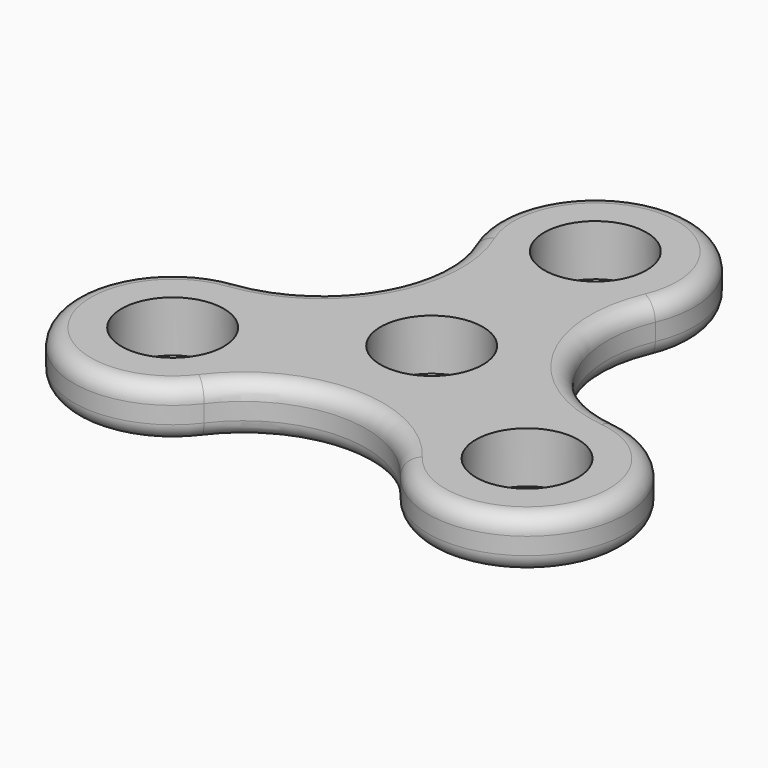
from build123d import *

# Parameters (mm, degrees)
F0_R     = 9.525
F1_DEPTH = 9.525
F2_R     = 3.175


with BuildPart() as f1:
    # F0 (on Top) → F1 (new body)
    with BuildSketch(Plane.XY):
        with BuildLine():
            ThreePointArc((35.216307, -0.769394), (18.175745, 10.493771), (16.941838, 30.882913))
            ThreePointArc((16.941838, 30.882913), (0, 56.515), (-16.941838, 30.882913))
            ThreePointArc((-16.941838, 30.882913), (-18.175745, 10.493771), (-35.216307, -0.769394))
            ThreePointArc((-35.216307, -0.769394), (-48.943426, -28.2575), (-18.274468, -30.113519))
            ThreePointArc((-18.274468, -30.113519), (0, -20.987543), (18.274468, -30.113519))
            ThreePointArc((18.274468, -30.113519), (48.943426, -28.2575), (35.216307, -0.769394))
        make_face()
        with Locations((-32.995568, -19.05)):
            Circle(F0_R, mode=Mode.SUBTRACT)
        Circle(F0_R, mode=Mode.SUBTRACT)
        with Locations((32.995568, -19.05)):
            Circle(F0_R, mode=Mode.SUBTRACT)
        with Locations((0, 38.1)):
            Circle(F0_R, mode=Mode.SUBTRACT)
    extrude(amount=F1_DEPTH)

    # F2
    f2_edges = [f1.edges().sort_by_distance(p)[0] for p in [
        (-18.175745, 10.493771, 9.525),
        (18.175745, 10.493771, 0),
    ]]
    fillet(f2_edges, radius=F2_R)


solid = f1.part
